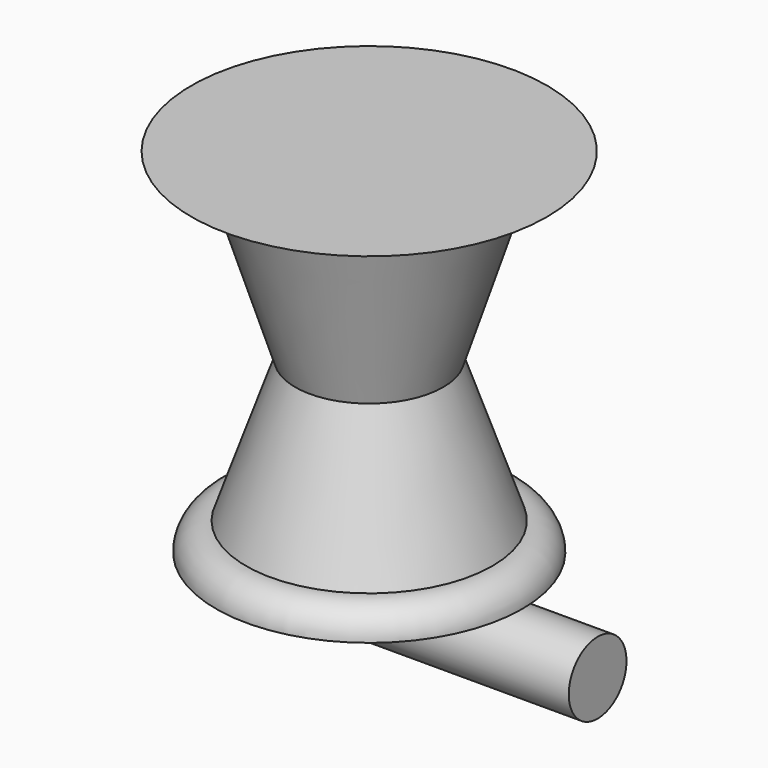
from build123d import *

# Parameters (mm, degrees)
F2_W = 56.1282783747
F2_H = 8.8696554303


with BuildPart() as f1:
    # F0 (on Front) → F1 (revolve)
    with BuildSketch(Plane.XZ):
        with BuildLine():
            Line((0, 86.7792963982), (0, 0))
            Line((0, 0), (37.6365669072, 0))
            ThreePointArc((37.6365669072, 0), (35.4459388742, 5.0386464005), (30.2670470605, 6.8732821435))
            Line((30.2670470605, 6.8732821435), (18.2017702609, 41.6498668492))
            Line((18.2017702609, 41.6498668492), (30.7465773076, 80.9228047729))
            Line((30.7465773076, 80.9228047729), (43.6947308481, 86.7792963982))
            Line((43.6947308481, 86.7792963982), (0, 86.7792963982))
        make_face()
    revolve(axis=Axis((0, 0, 103.6321963982), (0, 0, 1)))


with BuildPart() as f3:
    # F2 (on Front) → F3 (revolve)
    with BuildSketch(Plane.XZ):
        with Locations((28.0641391873, -4.4348277152)):
            Rectangle(F2_W, F2_H)
    revolve(axis=Axis((28.0641391873, 0, -8.8696554303), (1, 0, 0)))


solid = Compound([f1.part, f3.part])
